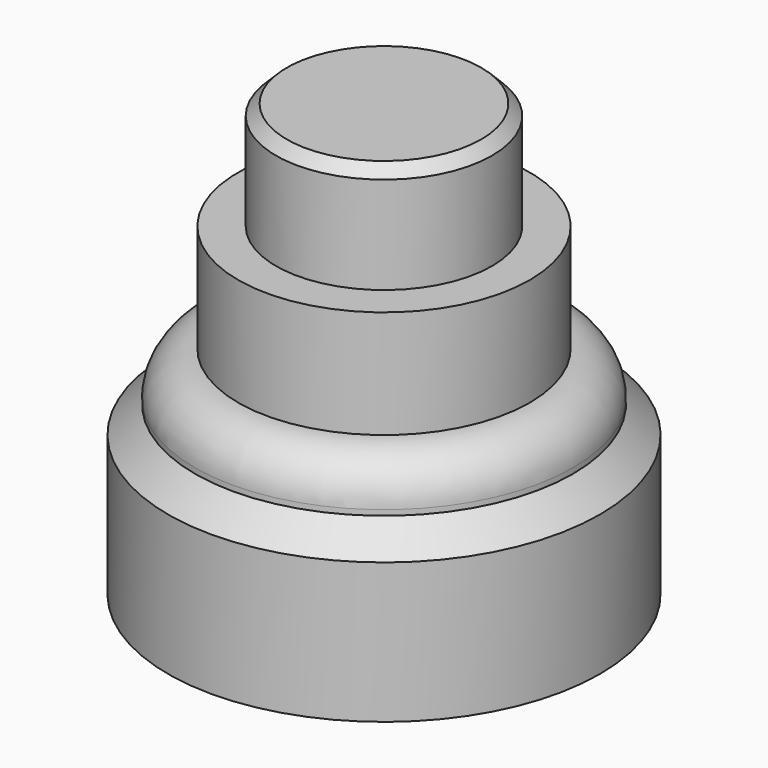
from build123d import *

# Parameters (mm, degrees)
F0_W   = 40
F0_H   = 26
F0_W_2 = 20
F0_H_2 = 18


with BuildPart() as f1:
    # F0 (on Front) → F1 (revolve)
    with BuildSketch(Plane.XZ):
        with Locations((20, 13)):
            Rectangle(F0_W, F0_H)
        Polygon((0, 31), (0, 26), (40, 26), (35, 31), align=None)
        with BuildLine():
            Line((0, 40), (0, 31))
            Line((0, 31), (35, 31))
            Line((35, 31), (35, 32))
            ThreePointArc((35, 32), (32.656854, 37.656854), (27, 40))
            Line((27, 40), (0, 40))
        make_face()
        Polygon((0, 60), (0, 40), (27, 40), (27, 60), (20, 60), align=None)
        with Locations((10, 69)):
            Rectangle(F0_W_2, F0_H_2)
        Polygon((0, 80), (0, 78), (20, 78), (18, 80), align=None)
    revolve(axis=Axis((0, 0, 40), (0, 0, 1)))


solid = f1.part
